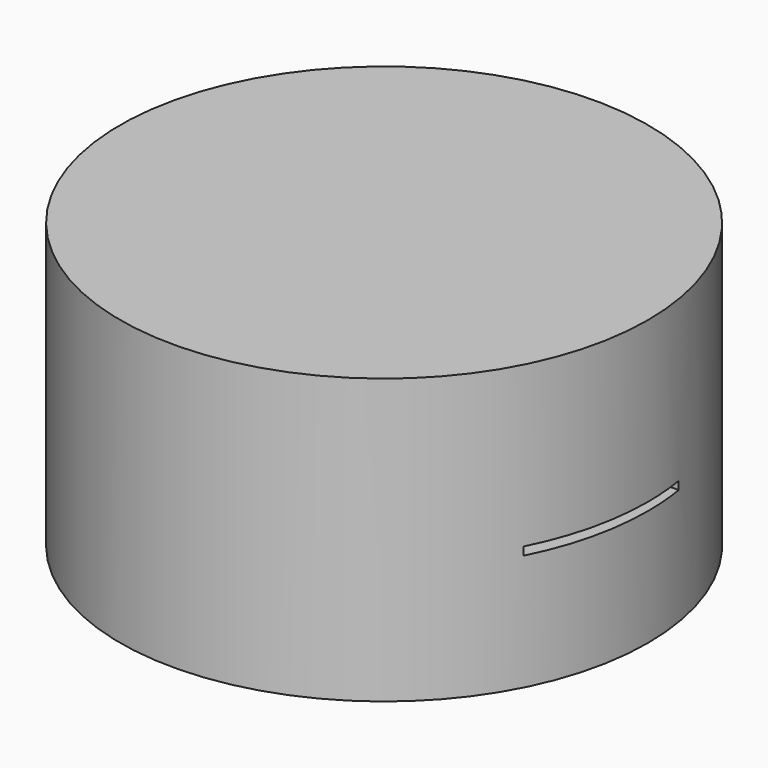
from build123d import *

# Parameters (mm, degrees)
F1_R          = 32.5
F2_DEPTH      = 35
F0_R          = 28.5
F3_DEPTH      = 28
F4_W          = 20
F4_H          = 1
F5_DEPTH      = 40
F5_DEPTH_BACK = 33.5


with BuildPart() as f2:
    # F1 (on Top) → F2 (new body)
    with BuildSketch(Plane.XY):
        Circle(F1_R)
    extrude(amount=F2_DEPTH)

    # F0 (on Top) → F3 (cut)
    with BuildSketch(Plane.XY):
        Circle(F0_R)
    extrude(amount=F3_DEPTH, mode=Mode.SUBTRACT)

    # F4 (on Right) → F5 (cut, two sides)
    with BuildSketch(Plane.YZ) as f5_sk:
        with Locations((-4.7494247556, 14.8)):
            Rectangle(F4_W, F4_H)
    extrude(amount=-F5_DEPTH, mode=Mode.SUBTRACT)
    extrude(f5_sk.sketch, amount=F5_DEPTH_BACK, mode=Mode.SUBTRACT)


solid = f2.part
